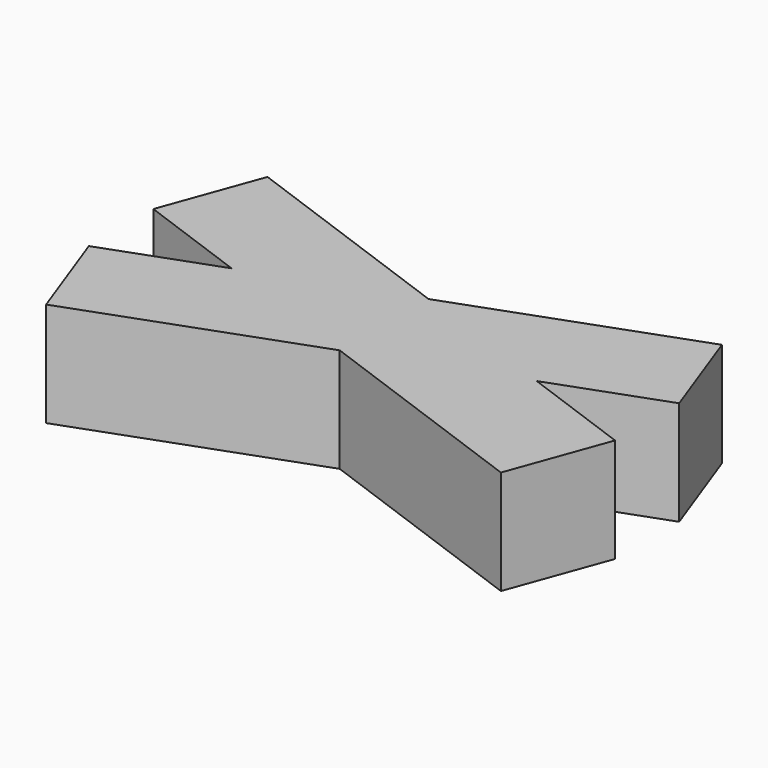
from build123d import *

# Parameters (mm, degrees)
BOX001_W               = 10
BOX001_H               = 2
BOX001_DEPTH           = 2
BOX001_PLACEMENT_ANGLE = 340
BOX_W                  = 10
BOX_H                  = 2
BOX_DEPTH              = 2
BOX_PLACEMENT_ANGLE    = 20


with BuildPart() as cube001:
    # Box001 → Box001 (new body)
    with BuildSketch(Plane.XY):
        with Locations((5, 1)):
            Rectangle(BOX001_W, BOX001_H)
    extrude(amount=BOX001_DEPTH)


with BuildPart() as cube001_1:
    # Box001 placement: moved
    add(cube001.part.moved(Location((-0.040483, 1.770408, 0))).rotate(Axis((-0.040483, 1.770408, 0), (0, 0, 1)), BOX001_PLACEMENT_ANGLE))


with BuildPart() as fusion:
    # Box → Box (new body)
    with BuildSketch(Plane.XY):
        with Locations((5, 1)):
            Rectangle(BOX_W, BOX_H)
    extrude(amount=BOX_DEPTH)


with BuildPart() as fusion_1:
    # Box placement: moved
    add(fusion.part.moved(Location((0.64, -1.65, 0))).rotate(Axis((0.64, -1.65, 0), (0, 0, 1)), BOX_PLACEMENT_ANGLE))

    # Fusion: union Cube001
    add(cube001_1.part)


solid = fusion_1.part
